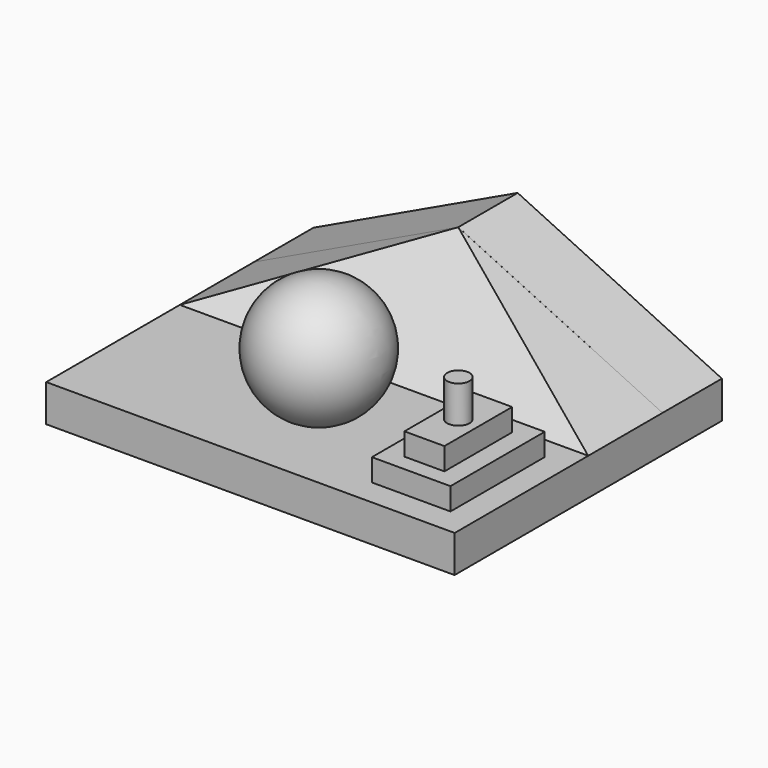
from build123d import *

# Parameters (mm, degrees)
F0_W      = 139.7
F0_H      = 114.3
F1_DEPTH  = 12.7
F3_DEPTH  = 25.4
F5_DEPTH  = 69.85
F7_DEPTH  = 152.4
F12_W     = 26.8636792898
F12_H     = 40.2955412865
F13_DEPTH = 7.62
F14_W     = 13.6722624302
F14_H     = 28.9779752493
F15_DEPTH = 7.62
F16_R     = 3.8166863586
F17_DEPTH = 12.7


with BuildPart() as f1:
    # F0 (on Top) → F1 (new body)
    with BuildSketch(Plane.XY):
        Rectangle(F0_W, F0_H)
    extrude(amount=F1_DEPTH)

    # F4 (on Right) → F5 (join, symmetric)
    with BuildSketch(Plane.YZ):
        Polygon((31.7347206713, 45.8977964838), (0, 12.7), (31.75, 12.7), align=None)
    extrude(amount=F5_DEPTH, both=True)

    # F6 (on face) → F7 (cut)
    with BuildSketch(Plane(origin=(0, 31.7558384645, 0.0146156657), x_dir=(-1, 0, 0), z_dir=(0, 0.9999998941, 0.0004602512))):
        Polygon((-69.85, 45.8831856779), (-69.85, 12.6853856779), (0, 45.8831856779), align=None)
        Polygon((69.85, 45.8831856779), (0, 45.8831856779), (69.85, 12.6853856779), align=None)
    extrude(amount=-F7_DEPTH, mode=Mode.SUBTRACT)

    # F9 (on offset) → F11 (revolve)
    with BuildSketch(Plane.XZ.offset(27.8894752264)):
        with BuildLine():
            Line((0, 54.9014345332), (0, 12.4586313442))
            ThreePointArc((0, 12.4586313442), (21.2214015945, 33.6800329387), (0, 54.9014345332))
        make_face()
    revolve(axis=Axis((0, -27.8894752264, 30.9769287705), (0, 0, 1)))

    # F12 (on face) → F13 (join)
    with BuildSketch(Plane.XY.offset(12.7)):
        with Locations((47.8184521198, -28.0055105686)):
            Rectangle(F12_W, F12_H)
    extrude(amount=F13_DEPTH)

    # F14 (on face) → F15 (join)
    with BuildSketch(Plane.XY.offset(20.32)):
        with Locations((47.8184521198, -28.0055105686)):
            Rectangle(F14_W, F14_H)
    extrude(amount=F15_DEPTH)

    # F16 (on face) → F17 (join)
    with BuildSketch(Plane.XY.offset(27.94)):
        with Locations((47.8184521198, -28.0055105686)):
            Circle(F16_R)
    extrude(amount=F17_DEPTH)


with BuildPart() as f3:
    # F2 (on face) → F3 (new body)
    with BuildSketch(Plane(origin=(0, 57.15, 0), x_dir=(-1, 0, 0), z_dir=(0, 1, 0))):
        Polygon((-69.85, 12.7), (69.85, 12.7), (0, 45.8916760981), align=None)
    extrude(amount=-F3_DEPTH)


solid = Compound([f1.part, f3.part])
